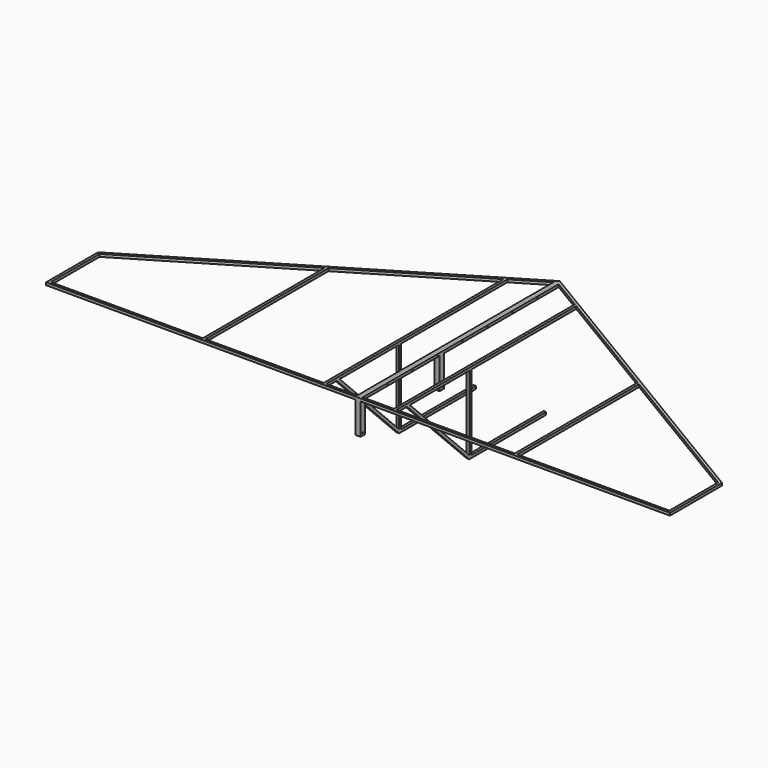
from build123d import *

# Parameters (mm, degrees)
F1_DEPTH  = 25.4
F3_DEPTH  = 50.8
F5_W      = 25.4
F5_H      = 304.8
F6_DEPTH  = 50.8
F7_W      = 914.4
F7_H      = 25.4
F8_DEPTH  = 25.4
F9_R      = 5.207
F10_DEPTH = 25.4


with BuildPart() as f1:
    # F0 (on Top) → F1 (new body)
    with BuildSketch(Plane.XY):
        Polygon((0, 2463.8), (0, 25.4), (25.4, 25.4), (25.4, 2418.9387643742), align=None)
        Polygon((3048, 635), (0, 2463.8), (25.4, 2418.9387643742), (330.2, 2236.0587643742), (355.6, 2220.8187643742), (1511.3, 1527.3987643742), (1536.7, 1512.1587643742), (3022.6, 620.6187643742), align=None)
        Polygon((1511.3, 25.4), (1536.7, 25.4), (1536.7, 1512.1587643742), (1511.3, 1527.3987643742), align=None)
        Polygon((3022.6, 25.4), (3048, 25.4), (3048, 635), (3022.6, 620.6187643742), align=None)
        Polygon((0, 25.4), (0, 0), (3048, 0), (3048, 25.4), (3022.6, 25.4), (1536.7, 25.4), (1511.3, 25.4), (355.6, 25.4), (330.2, 25.4), (25.4, 25.4), align=None)
        Polygon((330.2, 2236.0587643742), (330.2, 25.4), (355.6, 25.4), (355.6, 2220.8187643742), align=None)
    extrude(amount=F1_DEPTH)

    # F2 (on face) → F3 (join)
    with BuildSketch(Plane.XZ):
        Polygon((25.4, 0), (0, 0), (0, -304.8), (25.4, -304.8), (25.4, -279.4), (25.4, -243.4789755157), align=None)
    extrude(amount=-F3_DEPTH)

    # F5 (on offset) → F6 (join)
    with BuildSketch(Plane(origin=(0, 965.2, 0), x_dir=(-1, 0, 0), z_dir=(0, 1, 0))):
        with Locations((-12.7, -152.4)):
            Rectangle(F5_W, F5_H)
    extrude(amount=F6_DEPTH)

    # F7 (on face) → F8 (join)
    with BuildSketch(Plane(origin=(330.2, 0, 0), x_dir=(0, -1, 0), z_dir=(-1, 0, 0))):
        Polygon((-914.4, -762), (-152.4, 0), (-188.3210244843, 0), (-914.4, -726.0789755157), align=None)
        Polygon((-939.8, -762), (-914.4, -762), (-914.4, -726.0789755157), (-914.4, 0), (-939.8, 0), (-939.8, -736.6), align=None)
        with Locations((-1397, -749.3)):
            Rectangle(F7_W, F7_H)
    extrude(amount=-F8_DEPTH)

    # F9 (on face) → F10 (cut, through all)
    with BuildSketch(Plane(origin=(0, 0, 0), x_dir=(0, -1, 0), z_dir=(-1, 0, 0))):
        with Locations((-2159, 12.7)):
            Circle(F9_R)
        with Locations((-1854.2, 12.7)):
            Circle(F9_R)
        with Locations((-1549.4, 12.7)):
            Circle(F9_R)
        with Locations((-1244.6, 12.7)):
            Circle(F9_R)
        with Locations((-939.8, 12.7)):
            Circle(F9_R)
        with Locations((-990.6, -279.4)):
            Circle(F9_R)
        with Locations((-635, 12.7)):
            Circle(F9_R)
        with Locations((-330.2, 12.7)):
            Circle(F9_R)
        with Locations((-25.4, -279.4)):
            Circle(F9_R)
    extrude(amount=-F10_DEPTH, mode=Mode.SUBTRACT)


with BuildPart() as f11_1:
    # F11: instance of F1
    add(f1.part.mirror(Plane(origin=(0, 991.5317021022, -41.8690431459), x_dir=(0, -1, 0), z_dir=(-1, 0, 0))))


solid = Compound([f1.part, f11_1.part])
